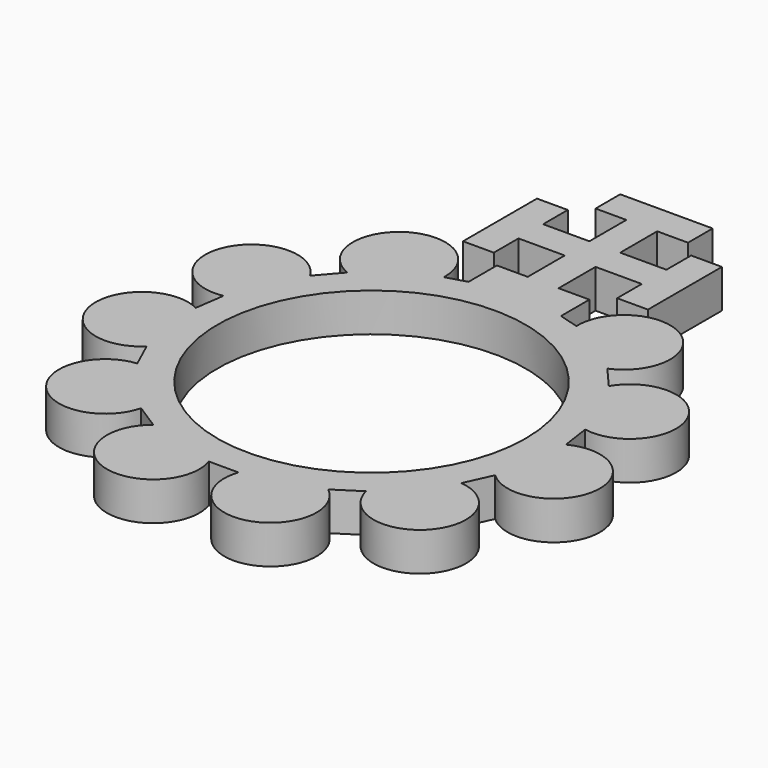
from build123d import *

# Parameters (mm, degrees)
F0_R     = 10
F1_DEPTH = 2.5


with BuildPart() as f1:
    # F0 (on Top) → F1 (new body)
    with BuildSketch(Plane.XY):
        with BuildLine():
            Line((4.301045, 11.237099), (3, 11.619121))
            Line((3, 11.619121), (3, 13.919121))
            Line((3, 13.919121), (1, 13.919121))
            Line((1, 13.919121), (1, 16.919121))
            Line((1, 16.919121), (4, 16.919121))
            Line((4, 16.919121), (4, 14.919121))
            Line((4, 14.919121), (6, 14.919121))
            Line((6, 14.919121), (6, 20.919121))
            Line((6, 20.919121), (4, 20.919121))
            Line((4, 20.919121), (4, 18.919121))
            Line((4, 18.919121), (1, 18.919121))
            Line((1, 18.919121), (1, 21.919121))
            Line((1, 21.919121), (3, 21.919121))
            Line((3, 21.919121), (3, 23.919121))
            Line((3, 23.919121), (0, 23.919121))
            Line((0, 23.919121), (-3, 23.919121))
            Line((-3, 23.919121), (-3, 21.919121))
            Line((-3, 21.919121), (-1, 21.919121))
            Line((-1, 21.919121), (-1, 18.919121))
            Line((-1, 18.919121), (-4, 18.919121))
            Line((-4, 18.919121), (-4, 20.919121))
            Line((-4, 20.919121), (-6, 20.919121))
            Line((-6, 20.919121), (-6, 14.919121))
            Line((-6, 14.919121), (-4, 14.919121))
            Line((-4, 14.919121), (-4, 16.919121))
            Line((-4, 16.919121), (-1, 16.919121))
            Line((-1, 16.919121), (-1, 13.919121))
            Line((-1, 13.919121), (-3, 13.919121))
            Line((-3, 13.919121), (-3, 11.619121))
            Line((-3, 11.619121), (-4.301045, 11.237099))
            ThreePointArc((-4.301045, 11.237099), (-8.920573, 13.880683), (-8.434906, 8.580428))
            Line((-8.434906, 8.580428), (-9.693504, 7.127929))
            ThreePointArc((-9.693504, 7.127929), (-15.008928, 6.854348), (-11.734824, 2.658061))
            Line((-11.734824, 2.658061), (-12.008344, 0.755692))
            ThreePointArc((-12.008344, 0.755692), (-16.332054, -2.348195), (-11.309018, -4.108222))
            Line((-11.309018, -4.108222), (-10.510619, -5.856472))
            ThreePointArc((-10.510619, -5.856472), (-12.469868, -10.805202), (-7.292679, -9.570173))
            Line((-7.292679, -9.570173), (-5.675848, -10.609248))
            ThreePointArc((-5.675848, -10.609248), (-4.648587, -15.831634), (-0.960966, -11.993662))
            Line((-0.960966, -11.993662), (0.960966, -11.993662))
            ThreePointArc((0.960966, -11.993662), (4.648587, -15.831634), (5.675848, -10.609248))
            Line((5.675848, -10.609248), (7.292679, -9.570173))
            ThreePointArc((7.292679, -9.570173), (12.469868, -10.805202), (10.510619, -5.856472))
            Line((10.510619, -5.856472), (11.309018, -4.108222))
            ThreePointArc((11.309018, -4.108222), (16.332054, -2.348195), (12.008344, 0.755692))
            Line((12.008344, 0.755692), (11.734824, 2.658061))
            ThreePointArc((11.734824, 2.658061), (15.008928, 6.854348), (9.693504, 7.127929))
            Line((9.693504, 7.127929), (8.434906, 8.580428))
            ThreePointArc((8.434906, 8.580428), (8.920573, 13.880683), (4.301045, 11.237099))
        make_face()
        Circle(F0_R, mode=Mode.SUBTRACT)
    extrude(amount=F1_DEPTH)


solid = f1.part
